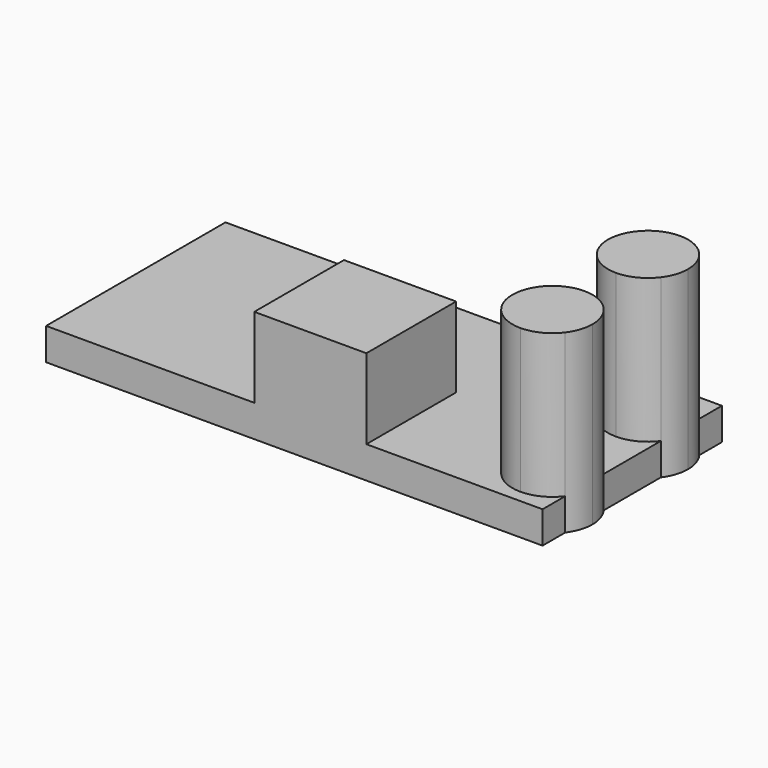
from build123d import *

# Parameters (mm, degrees)
F0_W     = 7
F0_H     = 7
F1_DEPTH = 7
F2_DEPTH = 11
F3_DEPTH = 2


with BuildPart() as f1:
    # F0 (on Top) → F1 (new body)
    with BuildSketch(Plane.XY):
        with Locations((22.4848273695, -11.8474444523)):
            Rectangle(F0_W, F0_H)
    extrude(amount=F1_DEPTH)



with BuildPart() as f2:
    # F0 (on Top) → F2 (new body)
    with BuildSketch(Plane.XY):
        with BuildLine():
            Line((34.9848273695, -3.1174444523), (34.9848273695, -2.1174444523))
            ThreePointArc((34.9848273695, -2.1174444523), (32.4848273695, -4.6174444523), (34.9848273695, -7.1174444523))
            Line((34.9848273695, -7.1174444523), (34.9848273695, -6.1174444523))
            ThreePointArc((34.9848273695, -6.1174444523), (33.4848273695, -4.6174444523), (34.9848273695, -3.1174444523))
        make_face()
        with BuildLine():
            Line((34.9848273695, -3.3474444523), (34.9848273695, -3.1174444523))
            ThreePointArc((34.9848273695, -3.1174444523), (33.4848273695, -4.6174444523), (34.9848273695, -6.1174444523))
            Line((34.9848273695, -6.1174444523), (34.9848273695, -5.8874444523))
            Line((34.9848273695, -5.8874444523), (34.9848273695, -3.3474444523))
        make_face()
        with BuildLine():
            ThreePointArc((36.4848273695, -4.6174444523), (36.0454875412, -3.5567842806), (34.9848273695, -3.1174444523))
            Line((34.9848273695, -3.1174444523), (34.9848273695, -3.3474444523))
            Line((34.9848273695, -3.3474444523), (34.9848273695, -5.8874444523))
            Line((34.9848273695, -5.8874444523), (34.9848273695, -6.1174444523))
            ThreePointArc((34.9848273695, -6.1174444523), (36.0454875412, -5.6781046241), (36.4848273695, -4.6174444523))
        make_face()
        with BuildLine():
            ThreePointArc((36.9848273695, -3.1174444523), (36.1028613582, -2.3813764748), (34.9848273695, -2.1174444523))
            Line((34.9848273695, -2.1174444523), (34.9848273695, -3.1174444523))
            ThreePointArc((34.9848273695, -3.1174444523), (36.0454875412, -3.5567842806), (36.4848273695, -4.6174444523))
            ThreePointArc((36.4848273695, -4.6174444523), (36.0454875412, -5.6781046241), (34.9848273695, -6.1174444523))
            Line((34.9848273695, -6.1174444523), (34.9848273695, -7.1174444523))
            ThreePointArc((34.9848273695, -7.1174444523), (36.1028613582, -6.8535124298), (36.9848273695, -6.1174444523))
            Line((36.9848273695, -6.1174444523), (36.9848273695, -3.1174444523))
        make_face()
        with BuildLine():
            ThreePointArc((37.4848273695, -4.6174444523), (37.3565356146, -3.8268750373), (36.9848273695, -3.1174444523))
            Line((36.9848273695, -3.1174444523), (36.9848273695, -6.1174444523))
            ThreePointArc((36.9848273695, -6.1174444523), (37.3565356146, -5.4080138674), (37.4848273695, -4.6174444523))
        make_face()
    extrude(amount=F2_DEPTH)


with BuildPart() as f2b:
    # F0 (on Top) → F2, piece 2 (new body)
    with BuildSketch(Plane.XY):
        with BuildLine():
            ThreePointArc((36.4848273695, -12.0774444523), (36.0454875412, -11.0167842806), (34.9848273695, -10.5774444523))
            Line((34.9848273695, -10.5774444523), (34.9848273695, -10.8074444523))
            Line((34.9848273695, -10.8074444523), (34.9848273695, -13.3474444523))
            Line((34.9848273695, -13.3474444523), (34.9848273695, -13.5774444523))
            ThreePointArc((34.9848273695, -13.5774444523), (36.0454875412, -13.1381046241), (36.4848273695, -12.0774444523))
        make_face()
        with BuildLine():
            ThreePointArc((37.4848273695, -12.0774444523), (37.3565356146, -11.2868750373), (36.9848273695, -10.5774444523))
            Line((36.9848273695, -10.5774444523), (36.9848273695, -13.5774444523))
            ThreePointArc((36.9848273695, -13.5774444523), (37.3565356146, -12.8680138674), (37.4848273695, -12.0774444523))
        make_face()
        with BuildLine():
            ThreePointArc((36.9848273695, -10.5774444523), (36.1028613582, -9.8413764748), (34.9848273695, -9.5774444523))
            Line((34.9848273695, -9.5774444523), (34.9848273695, -10.5774444523))
            ThreePointArc((34.9848273695, -10.5774444523), (36.0454875412, -11.0167842806), (36.4848273695, -12.0774444523))
            ThreePointArc((36.4848273695, -12.0774444523), (36.0454875412, -13.1381046241), (34.9848273695, -13.5774444523))
            Line((34.9848273695, -13.5774444523), (34.9848273695, -14.5774444523))
            ThreePointArc((34.9848273695, -14.5774444523), (36.1028613582, -14.3135124298), (36.9848273695, -13.5774444523))
            Line((36.9848273695, -13.5774444523), (36.9848273695, -10.5774444523))
        make_face()
        with BuildLine():
            Line((34.9848273695, -10.8074444523), (34.9848273695, -10.5774444523))
            ThreePointArc((34.9848273695, -10.5774444523), (33.4848273695, -12.0774444523), (34.9848273695, -13.5774444523))
            Line((34.9848273695, -13.5774444523), (34.9848273695, -13.3474444523))
            Line((34.9848273695, -13.3474444523), (34.9848273695, -10.8074444523))
        make_face()
        with BuildLine():
            Line((34.9848273695, -10.5774444523), (34.9848273695, -9.5774444523))
            ThreePointArc((34.9848273695, -9.5774444523), (32.4848273695, -12.0774444523), (34.9848273695, -14.5774444523))
            Line((34.9848273695, -14.5774444523), (34.9848273695, -13.5774444523))
            ThreePointArc((34.9848273695, -13.5774444523), (33.4848273695, -12.0774444523), (34.9848273695, -10.5774444523))
        make_face()
    extrude(amount=F2_DEPTH)


with BuildPart() as f1_1:
    add(f1.part)

    add(f2.part)  # F3 merges F2

    add(f2b.part)  # F3 merges F2b
    # F0 (on Top) → F3 (join)
    with BuildSketch(Plane.XY):
        with BuildLine():
            Line((34.9848273695, -1.3474444523), (5.9848273695, -1.3474444523))
            Line((5.9848273695, -1.3474444523), (5.9848273695, -15.3474444523))
            Line((5.9848273695, -15.3474444523), (18.9848273695, -15.3474444523))
            Line((18.9848273695, -15.3474444523), (18.9848273695, -8.3474444523))
            Line((18.9848273695, -8.3474444523), (25.9848273695, -8.3474444523))
            Line((25.9848273695, -8.3474444523), (25.9848273695, -15.3474444523))
            Line((25.9848273695, -15.3474444523), (34.9848273695, -15.3474444523))
            Line((34.9848273695, -15.3474444523), (34.9848273695, -14.5774444523))
            ThreePointArc((34.9848273695, -14.5774444523), (32.4848273695, -12.0774444523), (34.9848273695, -9.5774444523))
            Line((34.9848273695, -9.5774444523), (34.9848273695, -7.1174444523))
            ThreePointArc((34.9848273695, -7.1174444523), (32.4848273695, -4.6174444523), (34.9848273695, -2.1174444523))
            Line((34.9848273695, -2.1174444523), (34.9848273695, -1.3474444523))
        make_face()
        with BuildLine():
            Line((34.9848273695, -14.5774444523), (34.9848273695, -15.3474444523))
            Line((34.9848273695, -15.3474444523), (36.9848273695, -15.3474444523))
            Line((36.9848273695, -15.3474444523), (36.9848273695, -13.5774444523))
            ThreePointArc((36.9848273695, -13.5774444523), (36.1028613582, -14.3135124298), (34.9848273695, -14.5774444523))
        make_face()
        with BuildLine():
            ThreePointArc((36.9848273695, -6.1174444523), (36.1028613582, -6.8535124298), (34.9848273695, -7.1174444523))
            Line((34.9848273695, -7.1174444523), (34.9848273695, -9.5774444523))
            ThreePointArc((34.9848273695, -9.5774444523), (36.1028613582, -9.8413764748), (36.9848273695, -10.5774444523))
            Line((36.9848273695, -10.5774444523), (36.9848273695, -6.1174444523))
        make_face()
        with BuildLine():
            Line((36.9848273695, -1.3474444523), (34.9848273695, -1.3474444523))
            Line((34.9848273695, -1.3474444523), (34.9848273695, -2.1174444523))
            ThreePointArc((34.9848273695, -2.1174444523), (36.1028613582, -2.3813764748), (36.9848273695, -3.1174444523))
            Line((36.9848273695, -3.1174444523), (36.9848273695, -1.3474444523))
        make_face()
    extrude(amount=F3_DEPTH)


solid = f1_1.part
